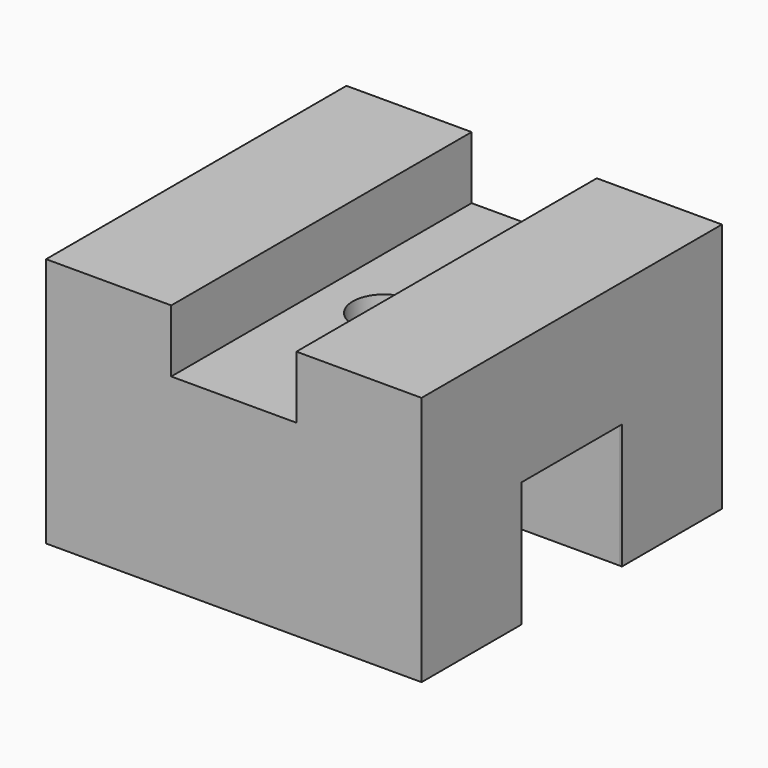
from build123d import *

# Parameters (mm, degrees)
F0_W      = 76.2
F0_H      = 76.2
F1_DEPTH  = 50.8
F2_W      = 25.4
F2_H      = 76.2
F3_DEPTH  = 12.7
F6_W      = 26.153776
F6_H      = 25.4
F7_DEPTH  = 25.4
F5_W      = 50.453637
F5_H      = 25.4
F8_DEPTH  = 25.4
F9_W      = 25.4
F9_H      = 12.7
F10_DEPTH = 25.4
F11_W     = 25.4
F11_H     = 12.7
F12_DEPTH = 25.4
F14_D     = 12.7


with BuildPart() as f1:
    # F0 (on Top) → F1 (new body)
    with BuildSketch(Plane.XY):
        Rectangle(F0_W, F0_H)
    extrude(amount=F1_DEPTH)

    # F2 (on face) → F3 (cut)
    with BuildSketch(Plane.XY.offset(50.8)):
        Rectangle(F2_W, F2_H)
    extrude(amount=-F3_DEPTH, mode=Mode.SUBTRACT)

    # F6 (on face) → F7 (cut)
    with BuildSketch(Plane(origin=(0, 0, 0), x_dir=(1, 0, 0), z_dir=(0, 0, -1))):
        with Locations((-25.776888, 0.036548)):
            Rectangle(F6_W, F6_H)
    extrude(amount=-F7_DEPTH, mode=Mode.SUBTRACT)

    # F5 (on face) → F8 (cut)
    with BuildSketch(Plane(origin=(0, 0, 0), x_dir=(1, 0, 0), z_dir=(0, 0, -1))):
        with Locations((12.526818, -0.04948)):
            Rectangle(F5_W, F5_H)
    extrude(amount=-F8_DEPTH, mode=Mode.SUBTRACT)

    # F9 (on face) → F10 (cut)
    with BuildSketch(Plane.YZ.offset(38.1)):
        with Locations((0, 6.35)):
            Rectangle(F9_W, F9_H)
    extrude(amount=-F10_DEPTH, mode=Mode.SUBTRACT)

    # F11 (on face) → F12 (cut)
    with BuildSketch(Plane.YZ.offset(38.1)):
        with Locations((0, 19.05)):
            Rectangle(F11_W, F11_H)
    extrude(amount=-F12_DEPTH, mode=Mode.SUBTRACT)

    # F14 (through all)
    with Locations(Plane.XY.offset(38.1)):
        with Locations((0, 0)):
            Hole(F14_D / 2)


solid = f1.part
